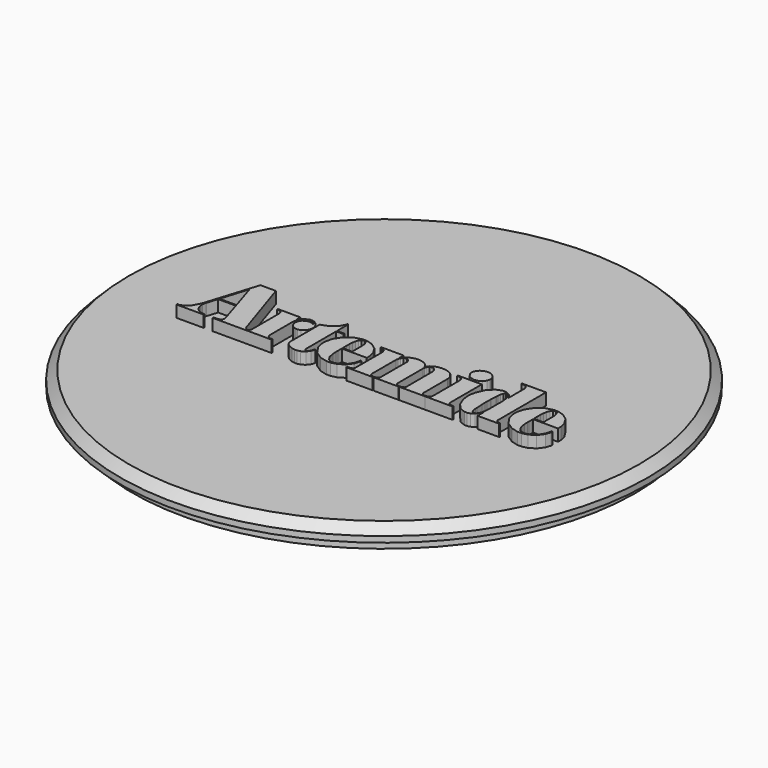
from build123d import *

# Parameters (mm, degrees)
F0_R     = 42.9
F1_DEPTH = 2
F2_R     = 45
F2_R_2   = 42.9
F3_DEPTH = 2.5
F4_SIZE  = 1.5
F6_DEPTH = 2


with BuildPart() as f1:
    # F0 (on Top) → F1 (new body)
    with BuildSketch(Plane.XY):
        Circle(F0_R)
    extrude(amount=F1_DEPTH)

    # F2 (on face) → F3 (join)
    with BuildSketch(Plane.XY.offset(2)):
        Circle(F2_R)
        Circle(F2_R_2, mode=Mode.SUBTRACT)
        Circle(F2_R_2)
    extrude(amount=F3_DEPTH)

    # F4
    f4_edges = [f1.edges().sort_by_distance(p)[0] for p in [
        (-45, 0, 4.5),
    ]]
    chamfer(f4_edges, length=F4_SIZE)

    # F5 (on face) → F6 (join)
    with BuildSketch(Plane.XY.offset(4.5)):
        Polygon((-13.181965, 1.494028), (-13.134975, 1.376934), (-13.206603, 1.423416), (-13.823823, 1.661922), (-14.052677, 1.661922), (-14.187551, 1.661922), (-14.590141, 1.564132), (-15.017369, 1.287272), (-15.298547, 0.862838), (-15.399131, 0.45339), (-15.399131, 0.315722), (-15.399131, 0.182118), (-15.295753, -0.223012), (-15.006193, -0.657352), (-14.573631, -0.945134), (-14.168247, -1.050036), (-14.032103, -1.050036), (-13.880465, -1.050036), (-13.424281, -0.92456), (-12.961493, -0.585724), (-12.667869, -0.085344), (-12.563221, 0.369316), (-12.563221, 0.519684), (-12.563221, 0.677926), (-12.680315, 1.152144), (-13.005435, 1.685544), (-13.501497, 2.05486), (-13.976731, 2.192528), (-14.133957, 2.192528), (-14.394307, 2.192528), (-15.174341, 1.815084), (-15.725521, 1.07061), (-15.785973, 0.887476), (-15.785973, 1.90754), (-19.640677, 1.90754), (-19.640677, 1.723898), (-19.436715, 1.723898), (-19.293459, 1.723898), (-18.860643, 1.525778), (-18.681319, 1.077722), (-18.681319, 0.927354), (-18.681319, -4.783074), (-18.681319, -4.867402), (-18.758535, -5.12064), (-18.977737, -5.293106), (-19.049365, -5.293106), (-19.143091, -5.293106), (-19.421475, -5.129022), (-19.621119, -4.84378), (-19.640677, -4.783074), (-23.107777, 5.822188), (-25.738201, 5.822188), (-28.389707, -2.620772), (-28.461335, -2.844038), (-28.724479, -3.500374), (-29.222065, -4.382262), (-29.910913, -5.059934), (-30.590363, -5.332984), (-30.816423, -5.332984), (-30.999557, -5.332984), (-30.999557, -5.516118), (-26.370915, -5.516118), (-26.370915, -5.332984), (-26.554303, -5.332984), (-26.734897, -5.332984), (-27.276425, -5.188458), (-27.830399, -4.79425), (-28.184475, -4.204462), (-28.308173, -3.658616), (-28.308173, -3.476752), (-28.308173, -3.2893), (-28.206319, -2.726944), (-28.185999, -2.661158), (-27.615515, -0.846074), (-24.595963, -0.846074), (-23.515701, -4.313174), (-23.506049, -4.348988), (-23.434421, -4.649216), (-23.434421, -4.7625), (-23.434421, -4.838446), (-23.545673, -5.065522), (-23.817453, -5.237734), (-24.157813, -5.31495), (-24.396319, -5.332984), (-24.474551, -5.332984), (-24.799925, -5.332984), (-24.799925, -5.516118), (-14.786991, -5.516118), (-14.786991, -5.332984), (-15.072487, -5.332984), (-15.206091, -5.332984), (-15.605887, -5.123434), (-15.785973, -4.71424), (-15.785973, -4.579112), (-15.785973, 0.092456), (-15.785973, 0.271526), (-15.686913, 0.805942), (-15.389225, 1.44145), (-14.891893, 1.89611), (-14.369669, 2.0701), (-14.194663, 2.0701), (-14.034897, 2.0701), (-13.551027, 1.898904), align=None)
        Polygon((-24.658193, -0.642112), (-27.553285, -0.642112), (-26.125551, 3.986784), align=None, mode=Mode.SUBTRACT)
        Polygon((-12.248769, 1.950212), (-12.481687, 1.90754), (-12.481687, -4.37515), (-12.481687, -4.533646), (-12.277725, -5.013452), (-11.766423, -5.465318), (-11.096625, -5.73278), (-10.591165, -5.822188), (-10.421493, -5.822188), (-10.231247, -5.822188), (-9.656699, -5.693918), (-9.069451, -5.334508), (-8.653653, -4.78028), (-8.442579, -4.250944), (-8.402701, -4.069334), (-8.525129, -4.069334), (-8.544687, -4.14655), (-8.599551, -4.380738), (-8.716899, -4.727956), (-8.906891, -5.011928), (-9.126093, -5.129022), (-9.197975, -5.129022), (-9.268079, -5.129022), (-9.478899, -4.947158), (-9.545193, -4.685284), (-9.545193, -4.598416), (-9.545193, 1.723898), (-8.300847, 1.723898), (-8.300847, 1.90754), (-9.545193, 1.90754), (-9.545193, 4.2926), (-9.688449, 4.2926), (-9.735185, 4.061206), (-10.064623, 3.40106), (-10.726293, 2.695448), (-11.566525, 2.191004), align=None)
        Polygon((-5.853303, -1.682496), (-1.611757, -1.682496), (-1.611757, -1.628902), (-1.590929, -1.467612), (-1.590929, -1.397508), (-1.590929, -1.055624), (-1.841881, -0.032766), (-2.541651, 1.097026), (-3.613785, 1.867154), (-4.636643, 2.151126), (-4.977003, 2.151126), (-5.361559, 2.151126), (-6.511925, 1.840992), (-7.741285, 0.992378), (-8.556879, -0.265938), (-8.852027, -1.419352), (-8.852027, -1.805178), (-8.852027, -2.199132), (-8.543163, -3.381756), (-7.693025, -4.642612), (-6.416929, -5.479034), (-5.230241, -5.782056), (-4.833493, -5.782056), (-4.528947, -5.782056), (-3.613785, -5.563108), (-2.597023, -4.952746), (-1.892935, -4.01828), (-1.618615, -3.123946), (-1.611757, -2.824734), (-1.774571, -2.824734), (-1.778381, -3.073146), (-1.985137, -3.815588), (-2.532253, -4.685284), (-3.344037, -5.301234), (-4.095115, -5.536946), (-4.344543, -5.536946), (-4.562221, -5.536946), (-5.212715, -5.23621), (-5.667375, -4.496562), (-5.845175, -3.556762), (-5.874131, -2.883916), (-5.874131, -2.661158), (-5.874131, -2.436368), (-5.858891, -1.76403), align=None)
        Polygon((-4.242435, -0.723138), (-4.242435, -1.499362), (-5.874131, -1.499362), (-5.874131, -1.40843), (-5.880735, -1.138174), (-5.886323, -0.6477), (-5.875401, -0.078486), (-5.831459, 0.510032), (-5.736209, 1.065276), (-5.573649, 1.529588), (-5.327015, 1.849628), (-5.065141, 1.967738), (-4.977003, 1.967738), (-4.866513, 1.967738), (-4.536059, 1.763776), (-4.319397, 1.274826), (-4.249293, 0.69469), (-4.242435, 0.335026), (-4.242435, 0.213614), (-4.242435, -0.152908), align=None, mode=Mode.SUBTRACT)
        Polygon((11.359769, -5.516118), (11.359769, -5.332984), (11.053953, -5.332984), (10.972419, -5.332984), (10.728579, -5.179822), (10.604627, -4.9276), (10.604627, -4.84378), (10.604627, 0.009906), (10.604627, 0.253492), (10.430891, 0.982472), (9.944481, 1.670304), (9.185275, 2.079498), (8.445119, 2.213356), (8.198485, 2.213356), (8.028813, 2.213356), (7.524623, 2.155444), (6.907403, 1.961134), (6.390513, 1.60274), (6.081903, 1.200404), (6.015609, 1.05029), (5.971413, 1.200404), (5.708269, 1.611122), (5.227447, 1.969262), (4.636135, 2.158238), (4.156837, 2.213356), (3.997071, 2.213356), (3.671697, 2.213356), (2.695829, 1.900428), (1.906397, 1.147826), (1.794891, 0.927354), (1.794891, 1.90754), (-2.019681, 1.90754), (-2.019681, 1.723898), (-1.815719, 1.723898), (-1.661287, 1.723898), (-1.194181, 1.471676), (-0.999871, 0.97155), (-0.999871, 0.804926), (-0.999871, -4.741672), (-0.999871, -4.850638), (-1.131951, -5.181346), (-1.461643, -5.332984), (-1.570101, -5.332984), (-2.019681, -5.332984), (-2.019681, -5.516118), (2.467229, -5.516118), (2.467229, -5.332984), (2.283841, -5.332984), (2.187575, -5.332984), (1.900809, -5.159502), (1.794891, -4.84505), (1.794891, -4.741672), (1.794891, 0.19304), (1.794891, 0.297688), (1.841627, 0.61214), (1.994535, 1.014222), (2.266315, 1.319022), (2.569337, 1.43764), (2.671191, 1.43764), (2.791079, 1.43764), (3.150743, 1.205738), (3.324479, 0.814578), (3.324479, 0.683514), (3.324479, -4.741672), (3.324479, -4.842256), (3.259709, -5.144262), (3.015869, -5.332984), (2.935859, -5.332984), (2.650363, -5.332984), (2.650363, -5.516118), (6.893687, -5.516118), (6.893687, -5.332984), (6.689725, -5.332984), (6.590157, -5.332984), (6.295263, -5.16763), (6.179693, -4.847844), (6.179693, -4.741672), (6.179693, 0.458978), (6.179693, 0.556768), (6.214237, 0.850138), (6.339459, 1.211326), (6.583553, 1.477264), (6.876923, 1.580642), (6.974713, 1.580642), (7.068693, 1.580642), (7.349871, 1.477264), (7.581265, 1.211326), (7.695565, 0.850138), (7.728585, 0.556768), (7.728585, 0.458978), (7.728585, -4.84378), (7.728585, -4.930394), (7.597775, -5.195062), (7.329043, -5.332984), (7.239381, -5.332984), (6.995541, -5.332984), (6.995541, -5.516118), align=None)
        Polygon((11.705463, -5.332984), (11.420475, -5.332984), (11.420475, -5.516118), (16.071215, -5.516118), (16.071215, -5.332984), (15.663291, -5.332984), (15.559913, -5.332984), (15.251303, -5.174488), (15.132685, -4.849368), (15.132685, -4.741672), (15.132685, 1.90754), (11.053953, 1.90754), (11.053953, 1.723898), (11.297793, 1.723898), (11.460353, 1.723898), (11.952351, 1.522984), (12.134215, 1.015492), (12.134215, 0.846328), (12.134215, -4.680966), (12.134215, -4.789932), (12.065381, -5.12064), (11.795125, -5.332984), align=None)
        Polygon((13.687425, 5.189728), (13.541121, 5.189728), (13.391007, 5.189728), (12.944475, 5.084826), (12.429109, 4.789932), (12.066651, 4.338066), (11.930253, 3.907028), (11.930253, 3.761994), (11.930253, 3.615944), (12.066651, 3.175), (12.429109, 2.718816), (12.944475, 2.421382), (13.391007, 2.31521), (13.541121, 2.31521), (13.687425, 2.31521), (14.125575, 2.421382), (14.635353, 2.718816), (14.995271, 3.175), (15.132685, 3.615944), (15.132685, 3.761994), (15.132685, 3.907028), (14.995271, 4.338066), (14.635353, 4.789932), (14.125575, 5.084826), align=None)
        Polygon((20.352893, 4.456684), (20.352893, 1.05029), (20.281265, 1.223772), (19.747865, 1.901698), (19.007963, 2.232406), (18.762599, 2.232406), (18.435701, 2.232406), (17.459071, 1.836928), (16.522065, 0.84201), (15.955391, -0.46863), (15.765399, -1.470406), (15.765399, -1.805178), (15.765399, -2.126234), (15.932023, -3.092196), (16.441801, -4.355846), (17.313021, -5.317744), (18.246979, -5.70103), (18.558637, -5.70103), (18.715609, -5.70103), (19.191097, -5.57276), (19.692747, -5.233924), (20.074509, -4.744466), (20.294981, -4.318762), (20.352893, -4.171188), (20.352893, -5.516118), (24.044529, -5.516118), (24.044529, -5.332984), (24.004651, -5.332984), (23.871047, -5.332984), (23.474299, -5.213096), (23.249509, -4.858766), (23.249509, -4.741672), (23.249509, 5.455666), (19.170269, 5.455666), (19.170269, 5.272532), (19.455765, 5.272532), (19.618325, 5.272532), (20.110323, 5.079492), (20.352893, 4.61264), align=None)
        Polygon((18.843879, -3.701288), (18.783173, -2.661158), (18.777585, -2.579624), (18.762599, -1.94183), (18.762599, -1.703324), (18.762599, -1.478534), (18.777585, -0.804672), (18.783173, -0.723138), (18.843879, 0.315722), (18.847943, 0.408178), (18.857849, 0.704088), (18.917031, 1.199134), (19.087719, 1.624838), (19.348069, 1.805432), (19.436207, 1.805432), (19.524599, 1.805432), (19.789013, 1.679956), (20.037425, 1.34366), (20.197191, 0.85725), (20.286853, 0.281178), (20.325207, -0.32385), (20.329525, -0.895858), (20.319619, -1.37668), (20.313015, -1.620266), (20.313015, -1.703324), (20.313015, -1.781556), (20.319619, -2.021586), (20.329525, -2.497074), (20.325207, -3.066034), (20.286853, -3.668268), (20.197191, -4.242816), (20.037425, -4.727956), (19.789013, -5.064252), (19.524599, -5.191252), (19.436207, -5.191252), (19.348069, -5.191252), (19.087719, -5.009134), (18.917031, -4.58343), (18.857849, -4.088638), (18.847943, -3.792474), align=None, mode=Mode.SUBTRACT)
        Polygon((26.737437, -1.682496), (30.999557, -1.682496), (30.999557, -1.628902), (30.999557, -1.467612), (30.999557, -1.397508), (30.999557, -1.055624), (30.748859, -0.032766), (30.048581, 1.097026), (28.976447, 1.867154), (27.954097, 2.151126), (27.613737, 2.151126), (27.230451, 2.151126), (26.081101, 1.840992), (24.860377, 0.992378), (24.051387, -0.265938), (23.759287, -1.419352), (23.759287, -1.805178), (23.759287, -2.199132), (24.065103, -3.381756), (24.908637, -4.642612), (26.176351, -5.479034), (27.361515, -5.782056), (27.756993, -5.782056), (28.061793, -5.782056), (28.979241, -5.563108), (29.989399, -4.952746), (30.693741, -4.01828), (30.981777, -3.12674), (30.999557, -2.824734), (30.816169, -2.824734), (30.811851, -3.073146), (30.606619, -3.815588), (30.061281, -4.685284), (29.254831, -5.301234), (28.513659, -5.536946), (28.267025, -5.536946), (28.049093, -5.536946), (27.396059, -5.23621), (26.932763, -4.496562), (26.748359, -3.556762), (26.716609, -2.883916), (26.716609, -2.661158), (26.716609, -2.476246), (26.737437, -1.92659), align=None)
        Polygon((28.348051, -0.723138), (28.368879, -1.499362), (26.716609, -1.499362), (26.716609, -1.40843), (26.709751, -1.138174), (26.704163, -0.6477), (26.716609, -0.078486), (26.762075, 0.510032), (26.859865, 1.065276), (27.025219, 1.529588), (27.277441, 1.849628), (27.544903, 1.967738), (27.634565, 1.967738), (27.741753, 1.967738), (28.064079, 1.763776), (28.273629, 1.274826), (28.342463, 0.69469), (28.348051, 0.335026), (28.348051, 0.213614), (28.348051, -0.152908), align=None, mode=Mode.SUBTRACT)
    extrude(amount=F6_DEPTH)


solid = f1.part
